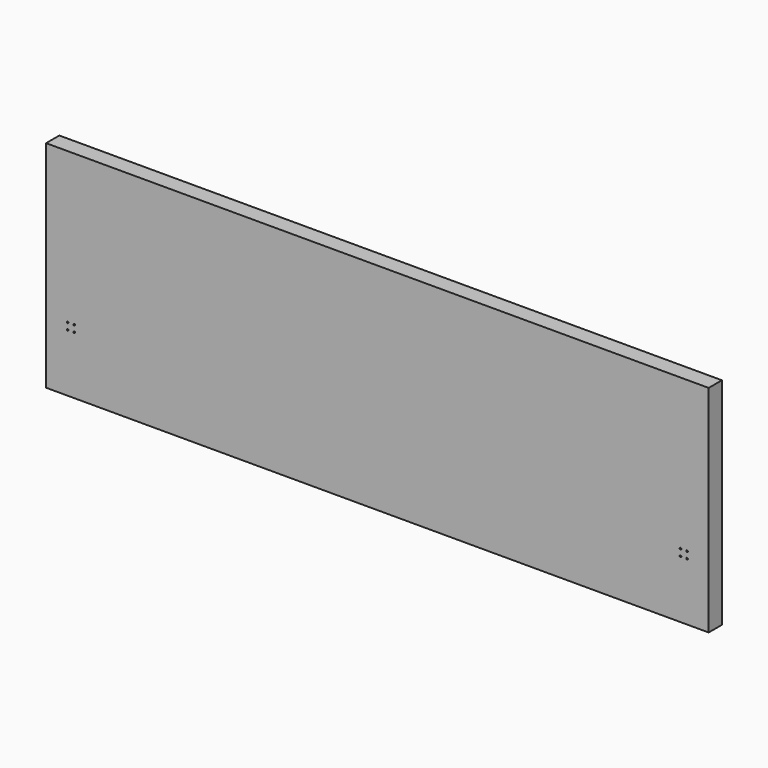
from build123d import *

# Parameters (mm, degrees)
F0_W     = 4000
F0_H     = 1300
F1_DEPTH = 50
F3_D     = 10
F3_DEPTH = 10
F3_TIP   = 3.0043030951


with BuildPart() as f1:
    # F0 (on Front) → F1 (new body, symmetric)
    with BuildSketch(Plane.XZ):
        Rectangle(F0_W, F0_H)
    extrude(amount=F1_DEPTH, both=True)

    # F3
    with Locations(Plane.XZ.offset(50)):
        with Locations((-1870, -260), (-1830, -260), (-1830, -300), (-1870, -300), (1830, -260), (1870, -260), (1870, -300), (1830, -300)):
            Hole(F3_D / 2, depth=F3_DEPTH)
            with Locations((0, 0, -(F3_DEPTH + F3_TIP / 2))):  # 118° drill point
                Cone(0, F3_D / 2, F3_TIP, mode=Mode.SUBTRACT)


solid = f1.part
